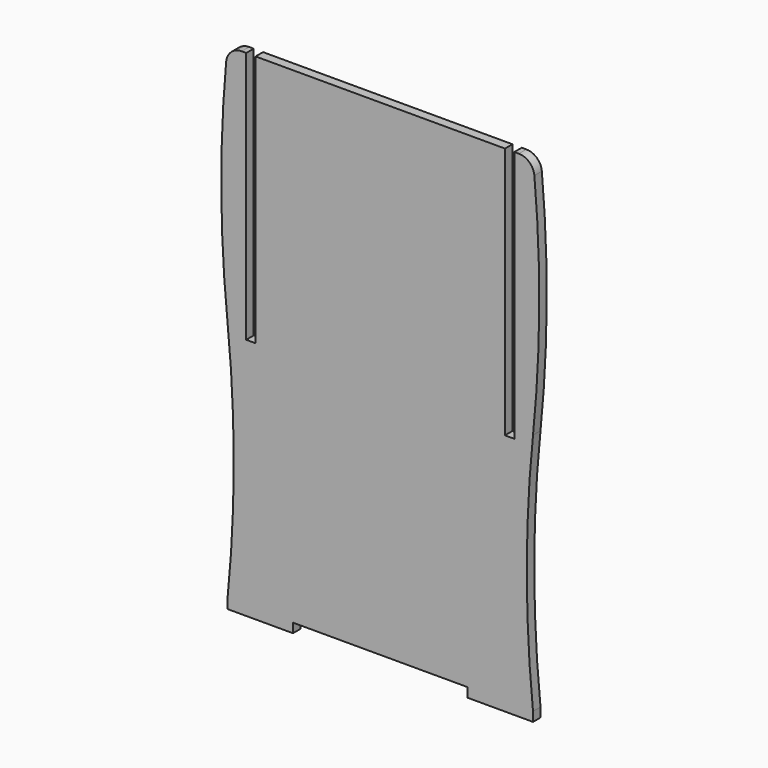
from build123d import *

# Parameters (mm, degrees)
F1_W     = 6
F1_H     = 3
F1_W_2   = 12
F1_W_3   = 3
F1_H_2   = 75
F2_DEPTH = 3
F3_R     = 5


with BuildPart() as f2:
    # F1 (on Front) → F2 (new body)
    with BuildSketch(Plane.XZ):
        with Locations((46, -79.5)):
            Rectangle(F1_W, F1_H)
        Polygon((28, -78), (40, -78), (40, -3), (40, 78), (-40, 78), (-40, -3), (-40, -78), (-28, -78), align=None)
        with Locations((-46, -79.5)):
            Rectangle(F1_W, F1_H)
        with Locations((-34, -79.5)):
            Rectangle(F1_W_2, F1_H)
        with Locations((34, -79.5)):
            Rectangle(F1_W_2, F1_H)
        with Locations((-41.5, -40.5)):
            Rectangle(F1_W_3, F1_H_2)
        with Locations((41.5, -40.5)):
            Rectangle(F1_W_3, F1_H_2)
        with Locations((-41.5, -79.5)):
            Rectangle(F1_W_3, F1_H)
        with Locations((41.5, -79.5)):
            Rectangle(F1_W_3, F1_H)
        with BuildLine():
            Line((-49, -78), (-43, -78))
            Line((-43, -78), (-43, -3))
            Line((-43, -3), (-43, 78))
            Line((-43, 78), (-49, 78))
            Line((-49, 78), (-49, 0))
            ThreePointArc((-49, 0), (-47, -39), (-49, -78))
        make_face()
        with BuildLine():
            Line((-49, 0), (-49, 78))
            ThreePointArc((-49, 78), (-51, 39), (-49, 0))
        make_face()
        with BuildLine():
            Line((43, -78), (49, -78))
            ThreePointArc((49, -78), (47, -39), (49, 0))
            Line((49, 0), (49, 78))
            Line((49, 78), (43, 78))
            Line((43, 78), (43, -3))
            Line((43, -3), (43, -78))
        make_face()
        with BuildLine():
            Line((49, 78), (49, 0))
            ThreePointArc((49, 0), (51, 39), (49, 78))
        make_face()
    extrude(amount=F2_DEPTH)

    # F3
    f3_edges = [f2.edges().sort_by_distance(p)[0] for p in [
        (49, -1.5, 78),
        (-49, -1.5, 78),
    ]]
    fillet(f3_edges, radius=F3_R)


solid = f2.part
